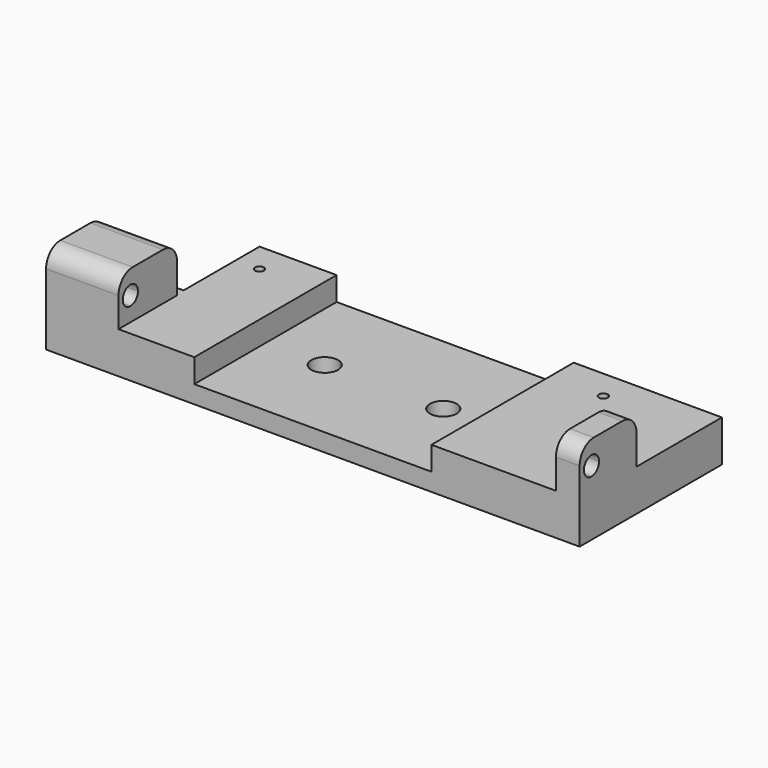
from build123d import *

# Parameters (mm, degrees)
F1_DEPTH  = 7
F2_W      = 4
F2_H      = 12
F3_DEPTH  = 8
F4_W      = 12.2146774828
F4_H      = 1.6385169476
F5_DEPTH  = 8
F7_DEPTH  = 80
F8_R      = 2.25
F9_DEPTH  = 25
F10_W     = 40
F10_H     = 30
F10_R     = 2.25
F11_DEPTH = 4
F12_R     = 3


with BuildPart() as f1:
    # F0 (on Top) → F1 (new body)
    with BuildSketch(Plane.XY):
        Polygon((-29, 15), (-33, 15), (-33, -1), (-45, -1), (-45, -15), (45, -15), (45, 15), (29, 15), align=None)
        with BuildLine():
            ThreePointArc((-28.25, 10), (-29.5303300859, 9.4696699141), (-29, 10.75))
            ThreePointArc((-29, 10.75), (-28.4696699141, 10.5303300859), (-28.25, 10))
        make_face(mode=Mode.SUBTRACT)
        with BuildLine():
            ThreePointArc((29.75, 10), (28.4696699141, 9.4696699141), (29, 10.75))
            ThreePointArc((29, 10.75), (29.5303300859, 10.5303300859), (29.75, 10))
        make_face(mode=Mode.SUBTRACT)
    extrude(amount=F1_DEPTH)

    # F2 (on face) → F3 (join)
    with BuildSketch(Plane.XY.offset(7)):
        Polygon((-33, -1), (-45, -1), (-45, -15), (-32.7853225172, -15), (-32.7853225172, -1), align=None)
        with Locations((43, -9)):
            Rectangle(F2_W, F2_H)
    extrude(amount=F3_DEPTH)

    # F4 (on face) → F5 (cut)
    with BuildSketch(Plane.XY.offset(15)):
        with Locations((-38.8926612586, -1.8192584738)):
            Rectangle(F4_W, F4_H)
    extrude(amount=-F5_DEPTH, mode=Mode.SUBTRACT)

    # F6 (on face) → F7 (cut)
    with BuildSketch(Plane.YZ.offset(45)):
        with BuildLine():
            ThreePointArc((-12.5, 9.4), (-11.3686291501, 9.8686291501), (-10.9, 11))
            ThreePointArc((-10.9, 11), (-13.6313708499, 12.1313708499), (-12.5, 9.4))
        make_face()
    extrude(amount=-F7_DEPTH, mode=Mode.SUBTRACT)

    # F8 (on face) → F9 (cut)
    with BuildSketch(Plane.XY.offset(7)):
        with Locations((-10, 0)):
            Circle(F8_R)
        with BuildLine():
            ThreePointArc((12.25, 0), (10, 2.25), (7.75, 0))
            ThreePointArc((7.75, 0), (10, -2.25), (12.25, 0))
        make_face()
    extrude(amount=-F9_DEPTH, mode=Mode.SUBTRACT)

    # F10 (on face) → F11 (cut)
    with BuildSketch(Plane.XY.offset(7)):
        Rectangle(F10_W, F10_H)
        with Locations((-10, 0)):
            Circle(F10_R, mode=Mode.SUBTRACT)
        with Locations((10, 0)):
            Circle(F10_R, mode=Mode.SUBTRACT)
    extrude(amount=-F11_DEPTH, mode=Mode.SUBTRACT)

    # F12
    f12_edges = [f1.edges().sort_by_distance(p)[0] for p in [
        (-38.892661, -15, 15),
        (43, -15, 15),
        (-38.892661, -2.638517, 15),
        (43, -3, 15),
    ]]
    fillet(f12_edges, radius=F12_R)


solid = f1.part
